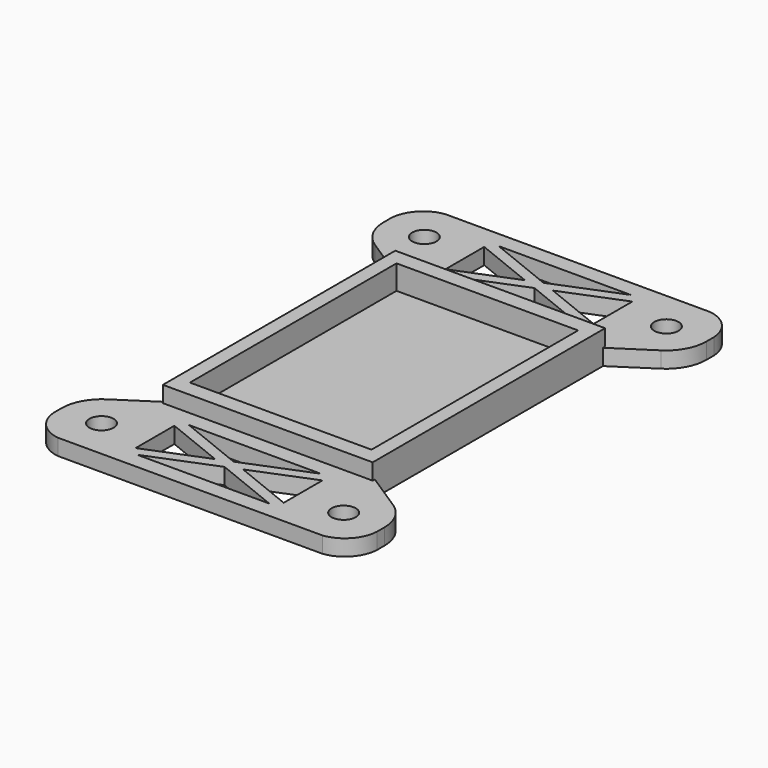
from build123d import *

# Parameters (mm, degrees)
F0_R     = 3.5
F0_R_2   = 1.5
F1_DEPTH = 2
F0_W     = 22.5
F0_H     = 32
F2_DEPTH = 4
F3_DEPTH = 1


with BuildPart() as f1:
    # F0 (on Top) → F1 (new body)
    with BuildSketch(Plane.XY):
        with BuildLine():
            ThreePointArc((20, 26.114874), (18.904278, 28.704066), (16.409269, 30))
            Line((16.409269, 30), (-16.409269, 30))
            ThreePointArc((-16.409269, 30), (-18.904278, 28.704066), (-20, 26.114874))
            Line((-20, 26.114874), (-20, 24.938533))
            ThreePointArc((-20, 24.938533), (-19.396294, 22.556811), (-17.73096, 20.750233))
            Line((-17.73096, 20.750233), (-13, 17.665434))
            Line((-13, 17.665434), (-13, 18))
            Line((-13, 18), (13, 18))
            Line((13, 18), (13, 17.665434))
            Line((13, 17.665434), (17.73096, 20.750233))
            ThreePointArc((17.73096, 20.750233), (19.396294, 22.556811), (20, 24.938533))
            Line((20, 24.938533), (20, 26.114874))
        make_face()
        with Locations((-15, 25)):
            Circle(F0_R, mode=Mode.SUBTRACT)
        Polygon((-9.18, 27), (-9.18, 28), (-8.18, 28), (8.18, 28), (9.170838, 28), (9.170838, 27), (9.170838, 21), (9.170838, 20), (8.18, 20), (-8.18, 20), (-9.18, 20), (-9.18, 21), align=None, mode=Mode.SUBTRACT)
        with Locations((15, 25)):
            Circle(F0_R, mode=Mode.SUBTRACT)
        with BuildLine():
            Line((17.73096, -20.750233), (13, -17.665434))
            Line((13, -17.665434), (13, -18))
            Line((13, -18), (-13, -18))
            Line((-13, -18), (-13, -17.665434))
            Line((-13, -17.665434), (-17.73096, -20.750233))
            ThreePointArc((-17.73096, -20.750233), (-19.396294, -22.556811), (-20, -24.938533))
            Line((-20, -24.938533), (-20, -26.114874))
            ThreePointArc((-20, -26.114874), (-18.904278, -28.704066), (-16.409269, -30))
            Line((-16.409269, -30), (16.409269, -30))
            ThreePointArc((16.409269, -30), (18.904278, -28.704066), (20, -26.114874))
            Line((20, -26.114874), (20, -24.938533))
            ThreePointArc((20, -24.938533), (19.396294, -22.556811), (17.73096, -20.750233))
        make_face()
        with Locations((-15, -25)):
            Circle(F0_R, mode=Mode.SUBTRACT)
        Polygon((-8.18, -20), (8.18, -20), (9.170838, -20), (9.170838, -21), (9.170838, -27), (9.170838, -28), (8.18, -28), (-8.18, -28), (-9.18, -28), (-9.18, -27), (-9.18, -21), (-9.18, -20), align=None, mode=Mode.SUBTRACT)
        with Locations((15, -25)):
            Circle(F0_R, mode=Mode.SUBTRACT)
        with Locations((-15, -25)):
            Circle(F0_R)
        with Locations((-15, -25)):
            Circle(F0_R_2, mode=Mode.SUBTRACT)
        with Locations((15, -25)):
            Circle(F0_R)
        with Locations((15, -25)):
            Circle(F0_R_2, mode=Mode.SUBTRACT)
        with Locations((15, 25)):
            Circle(F0_R)
        with Locations((15, 25)):
            Circle(F0_R_2, mode=Mode.SUBTRACT)
        with Locations((-15, 25)):
            Circle(F0_R)
        with Locations((-15, 25)):
            Circle(F0_R_2, mode=Mode.SUBTRACT)
        Polygon((-8.18, 28), (-9.18, 28), (-9.18, 27), (-1.743927, 24), (-9.18, 21), (-9.18, 20), (-8.18, 20), (0, 23.300129), (8.18, 20), (9.170838, 20), (9.170838, 21), (1.734764, 24), (9.170838, 27), (9.170838, 28), (8.18, 28), (0, 24.699871), align=None)
        Polygon((9.170838, -20), (8.18, -20), (0, -23.300129), (-8.18, -20), (-9.18, -20), (-9.18, -21), (-1.743927, -24), (-9.18, -27), (-9.18, -28), (-8.18, -28), (0, -24.699871), (8.18, -28), (9.170838, -28), (9.170838, -27), (1.734764, -24), (9.170838, -21), align=None)
    extrude(amount=F1_DEPTH)

    # F0 (on Top) → F2 (join)
    with BuildSketch(Plane.XY):
        Polygon((13, -17.665434), (13, 17.665434), (13, 18), (-13, 18), (-13, 17.665434), (-13, -17.665434), (-13, -18), (13, -18), align=None)
        Rectangle(F0_W, F0_H, mode=Mode.SUBTRACT)
    extrude(amount=F2_DEPTH)

    # F0 (on Top) → F3 (join)
    with BuildSketch(Plane.XY):
        Rectangle(F0_W, F0_H)
    extrude(amount=F3_DEPTH)


solid = f1.part
